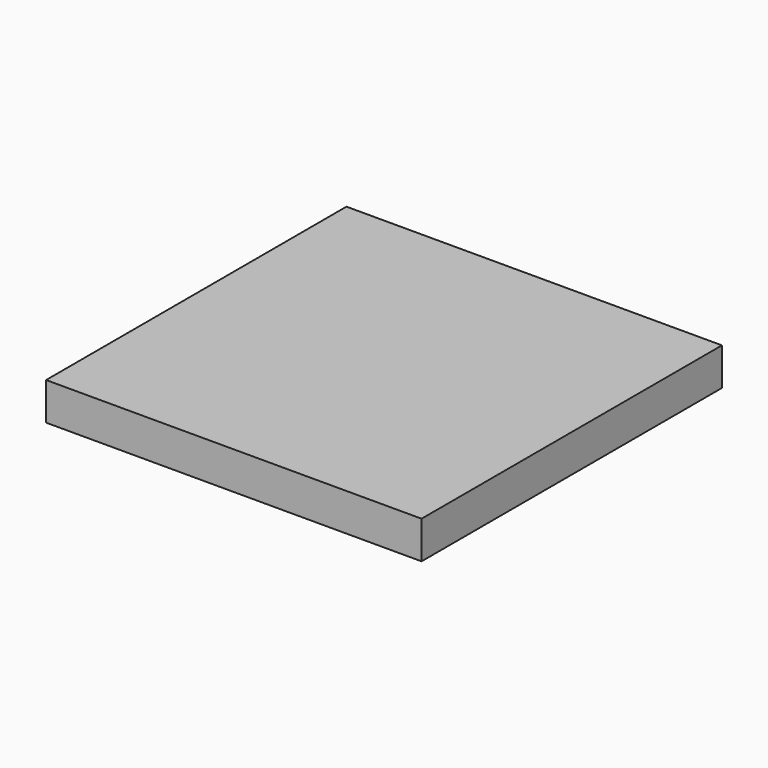
from build123d import *

# Parameters (mm, degrees)
F0_W     = 10
F0_H     = 10
F1_DEPTH = 1
F3_DEPTH = 0.4


with BuildPart() as f1:
    # F0 (on Top) → F1 (new body)
    with BuildSketch(Plane.XY):
        Rectangle(F0_W, F0_H)
    extrude(amount=F1_DEPTH)

    # F2 (on face) → F3 (cut)
    with BuildSketch(Plane(origin=(0, 0, 0), x_dir=(1, 0, 0), z_dir=(0, 0, -1))):
        Polygon((3, 2), (3, 3), (-3, 3), (-3, -3), (-2, -3), (-2, 2), align=None)
    extrude(amount=-F3_DEPTH, mode=Mode.SUBTRACT)


solid = f1.part
